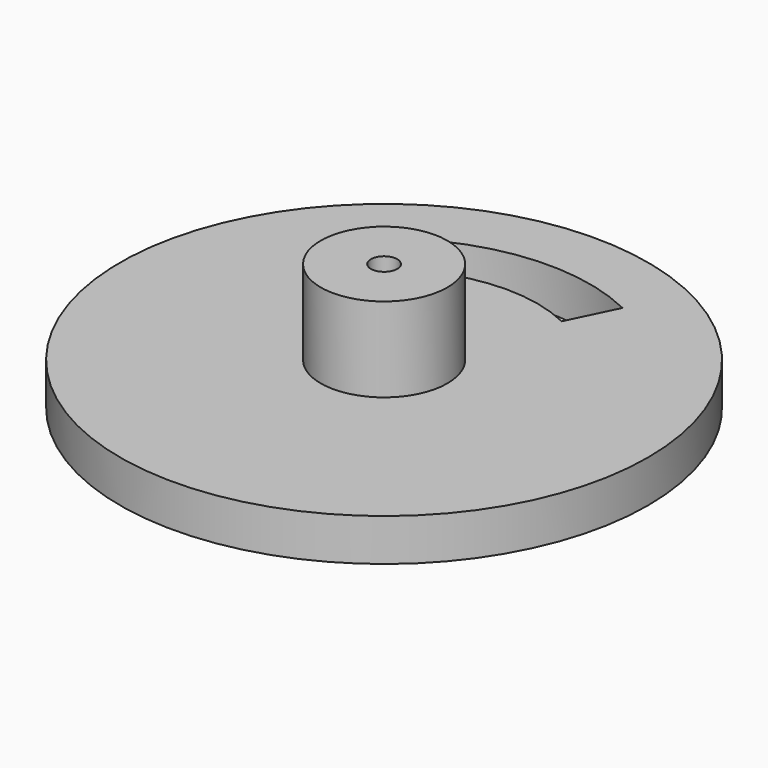
from build123d import *

# Parameters (mm, degrees)
F0_R     = 25
F0_R_2   = 6
F1_DEPTH = 4
F0_R_3   = 4
F2_DEPTH = 8
F5_DEPTH = 25
F6_R     = 6
F6_R_2   = 1.25
F7_DEPTH = 4


with BuildPart() as f1:
    # F0 (on Top) → F1 (new body)
    with BuildSketch(Plane.XY):
        Circle(F0_R)
        Circle(F0_R_2, mode=Mode.SUBTRACT)
    extrude(amount=F1_DEPTH)

    # F0 (on Top) → F2 (join)
    with BuildSketch(Plane.XY):
        Circle(F0_R_2)
        Circle(F0_R_3, mode=Mode.SUBTRACT)
    extrude(amount=F2_DEPTH)

    # F4 (on face) → F5 (cut)
    with BuildSketch(Plane.XY.offset(4)):
        with BuildLine():
            ThreePointArc((8.561512, 17.523658), (-0.015533, 19.478312), (-8.581679, 17.47643))
            Line((-8.581679, 17.47643), (-6.362037, 13.037147))
            ThreePointArc((-6.362037, 13.037147), (0.01353, 14.496219), (6.389097, 13.037147))
            Line((6.389097, 13.037147), (8.561512, 17.523658))
        make_face()
    extrude(amount=-F5_DEPTH, mode=Mode.SUBTRACT)

    # F6 (on face) → F7 (join)
    with BuildSketch(Plane.XY.offset(8)):
        Circle(F6_R)
        Circle(F6_R_2, mode=Mode.SUBTRACT)
    extrude(amount=F7_DEPTH)


solid = f1.part
